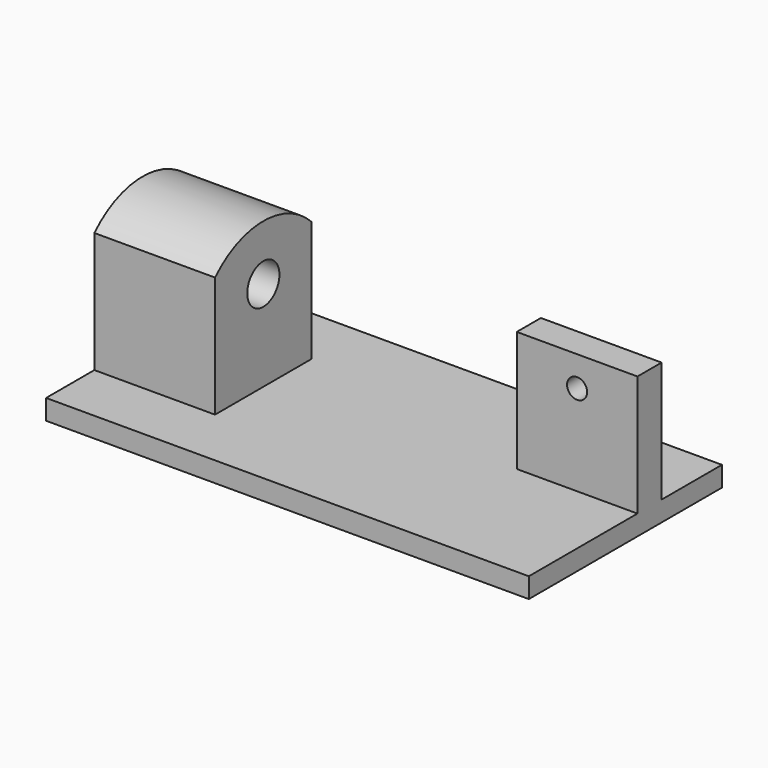
from build123d import *

# Parameters (mm, degrees)
F1_DEPTH  = 25.4
F2_W      = 152.4
F2_H      = 152.4
F3_DEPTH  = 152.4
F4_R      = 25.4
F5_DEPTH  = 152.401
F6_W      = 152.4
F6_H      = 38.1
F7_DEPTH  = 152.4
F8_R      = 12.7
F9_DEPTH  = 133.351
F11_DEPTH = 152.4


with BuildPart() as f1:
    # F0 (on Top) → F1 (new body)
    with BuildSketch(Plane.XY):
        Polygon((304.8, 152.4), (-304.8, 152.4), (-304.8, 0), (-304.8, -152.4), (304.8, -152.4), align=None)
    extrude(amount=-F1_DEPTH)

    # F2 (on face) → F3 (join)
    with BuildSketch(Plane.XY):
        with Locations((-228.6, 0)):
            Rectangle(F2_W, F2_H)
    extrude(amount=F3_DEPTH)

    # F4 (on face) → F5 (cut, through all)
    with BuildSketch(Plane.YZ.offset(-152.4)):
        with Locations((0, 114.3)):
            Circle(F4_R)
    extrude(amount=-F5_DEPTH, mode=Mode.SUBTRACT)

    # F6 (on face) → F7 (join)
    with BuildSketch(Plane.XY):
        with Locations((228.6, 38.1)):
            Rectangle(F6_W, F6_H)
    extrude(amount=F7_DEPTH)

    # F8 (on face) → F9 (cut, through all)
    with BuildSketch(Plane.XZ.offset(-19.05)):
        with Locations((228.6, 114.3)):
            Circle(F8_R)
    extrude(amount=-F9_DEPTH, mode=Mode.SUBTRACT)

    # F10 (on face) → F11 (join, through all)
    with BuildSketch(Plane.YZ.offset(-152.4)):
        with BuildLine():
            Line((-76.2, 152.4), (76.2, 152.4))
            ThreePointArc((76.2, 152.4), (0, 184.260238), (-76.2, 152.4))
        make_face()
    extrude(amount=-F11_DEPTH)


solid = f1.part
